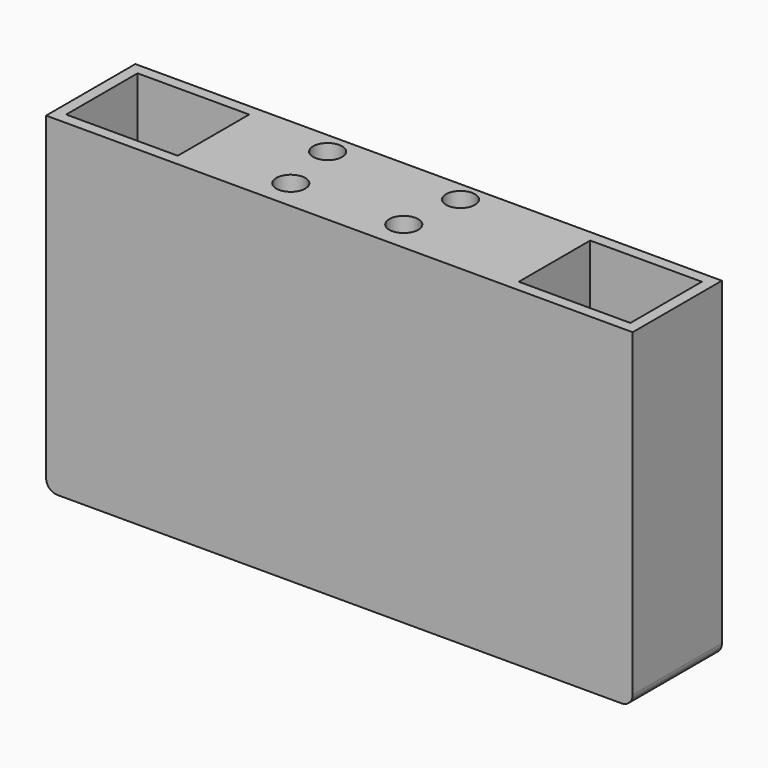
from build123d import *

# Parameters (mm, degrees)
F0_W     = 262.8
F0_H     = 148
F1_DEPTH = 50
F2_R     = 5
F3_R     = 5
F4_W     = 50
F4_H     = 40
F4_R     = 6.5
F5_DEPTH = 125


with BuildPart() as f1:
    # F0 (on Front) → F1 (new body)
    with BuildSketch(Plane.XZ):
        with Locations((75.004346, 56.001419)):
            Rectangle(F0_W, F0_H)
    extrude(amount=F1_DEPTH)

    # F2
    f2_edges = [f1.edges().sort_by_distance(p)[0] for p in [
        (206.404346, -25, -17.998581),
    ]]
    fillet(f2_edges, radius=F2_R)

    # F3
    f3_edges = [f1.edges().sort_by_distance(p)[0] for p in [
        (-56.395654, -25, -17.998581),
    ]]
    fillet(f3_edges, radius=F3_R)

    # F4 (on face) → F5 (cut)
    with BuildSketch(Plane.XY.offset(130.001419)):
        with Locations((-26.395654, -25)):
            Rectangle(F4_W, F4_H)
        with Locations((37.584728, -9.787194)):
            Circle(F4_R)
        with Locations((96.540727, -9.092722)):
            Circle(F4_R)
        with Locations((42.519221, -36.595406)):
            Circle(F4_R)
        with Locations((92.867015, -36.265045)):
            Circle(F4_R)
        with Locations((176.404346, -25)):
            Rectangle(F4_W, F4_H)
    extrude(amount=-F5_DEPTH, mode=Mode.SUBTRACT)


solid = f1.part
